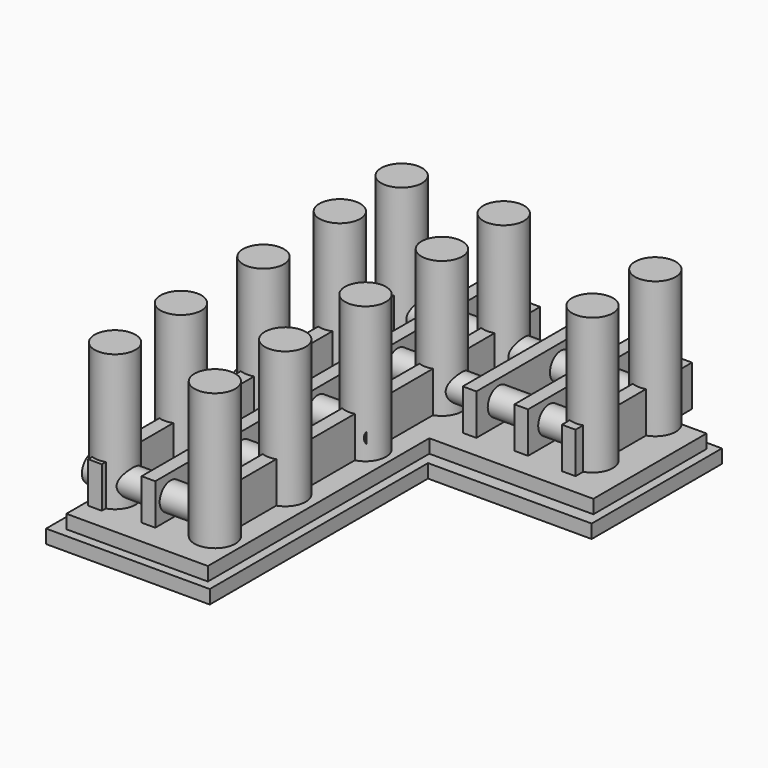
from build123d import *

# Parameters (mm, degrees)
F2_DEPTH      = 12.7
F3_DEPTH      = 25.4
F6_DEPTH      = 38.1
F7_R          = 12.7
F8_DEPTH      = 251.46
F8_DEPTH_BACK = 2.54
F9_DEPTH      = 114.3
F9_DEPTH_BACK = 12.7
F10_R         = 19.05
F11_DEPTH     = 127


with BuildPart() as f2:
    # F0 (on Top) → F2 (new body)
    with BuildSketch(Plane.XY):
        Polygon((152.4, 201.0648879761), (-152.4, 201.0648879761), (-152.4, -204.5382511029), (0, -204.5382511029), (0, 49.4617488971), (152.4, 49.4617488971), align=None)
    extrude(amount=F2_DEPTH)

    # F1 (on Top) → F3 (join)
    with BuildSketch(Plane.XY):
        Polygon((144.2498117685, 193.3349314054), (-140.2351799329, 193.3349314054), (-140.2351799329, -196.1317352613), (-8.4666666667, -196.1317352613), (-8.4666666667, 61.5842622797), (0, 61.5842622797), (144.2498117685, 61.5842622797), align=None)
    extrude(amount=F3_DEPTH)


with BuildPart() as f6:
    # F5 (on offset) → F6 (new body)
    with BuildSketch(Plane.XY.offset(38.1)):
        Polygon((-73.498930751, 197.4967206399), (-73.498930751, 27.8196092695), (-73.498930751, -191.9699460268), (-60.798930751, -191.9699460268), (-60.798930751, 127.6573985815), (-60.798930751, 197.4967206399), align=None)
    extrude(amount=F6_DEPTH)


with BuildPart() as f6b:
    # F5 (on offset) → F6, piece 2 (new body)
    with BuildSketch(Plane.XY.offset(38.1)):
        Polygon((-107.788930751, 194.0739942034), (-120.488930751, 194.0739942034), (-120.488930751, -195.3926724633), (-107.788930751, -195.3926724633), (-107.788930751, 27.8196092695), align=None)
    extrude(amount=F6_DEPTH)

    # F7 (on face) → F8 (join, two sides)
    with BuildSketch(Plane(origin=(-120.488930751, 0, 0), x_dir=(0, -1, 0), z_dir=(-1, 0, 0))) as f8_sk:
        with Locations((-90.2187364873, 57.8096798096)):
            Circle(F7_R)
        with Locations((-162.6416483043, 56.950548049)):
            Circle(F7_R)
    extrude(amount=-F8_DEPTH)
    extrude(f8_sk.sketch, amount=F8_DEPTH_BACK)


with BuildPart() as f6c:
    # F5 (on offset) → F6, piece 3 (new body)
    with BuildSketch(Plane.XY.offset(38.1)):
        Polygon((-26.508930751, 197.2913677375), (-26.508930751, 127.6573985815), (-26.508930751, -192.1752989292), (-13.808930751, -192.1752989292), (-13.808930751, 169.3038642406), (-13.808930751, 197.2913677375), align=None)
    extrude(amount=F6_DEPTH)


with BuildPart() as f6d:
    # F5 (on offset) → F6, piece 4 (new body)
    with BuildSketch(Plane.XY.offset(38.1)):
        Polygon((20.481069249, 199.795165805), (20.481069249, 169.3038642406), (20.481069249, 64.3284991384), (33.181069249, 64.3284991384), (33.181069249, 132.0618324717), (33.181069249, 199.795165805), align=None)
    extrude(amount=F6_DEPTH)


with BuildPart() as f6e:
    # F5 (on offset) → F6, piece 5 (new body)
    with BuildSketch(Plane.XY.offset(38.1)):
        Polygon((67.471069249, 201.1690603177), (67.471069249, 132.0618324717), (67.471069249, 65.702393651), (80.171069249, 65.702393651), (80.171069249, 154.0302634239), (80.171069249, 201.1690603177), align=None)
    extrude(amount=F6_DEPTH)


with BuildPart() as f6f:
    # F5 (on offset) → F6, piece 6 (new body)
    with BuildSketch(Plane.XY.offset(38.1)):
        Polygon((114.461069249, 197.7404037098), (114.461069249, 154.0302634239), (114.461069249, 62.2737370431), (127.161069249, 62.2737370431), (127.161069249, 197.7404037098), align=None)
    extrude(amount=F6_DEPTH)


with BuildPart() as f9:
    # F7 (on face) → F9 (new body, two sides)
    with BuildSketch(Plane(origin=(-120.488930751, 0, 0), x_dir=(0, -1, 0), z_dir=(-1, 0, 0))) as f9_sk:
        with Locations((174.1378468705, 56.9505412799)):
            Circle(F7_R)
    extrude(amount=-F9_DEPTH)
    extrude(f9_sk.sketch, amount=F9_DEPTH_BACK)


with BuildPart() as f9b:
    # F7 (on face) → F9, piece 2 (new body, two sides)
    with BuildSketch(Plane(origin=(-120.488930751, 0, 0), x_dir=(0, -1, 0), z_dir=(-1, 0, 0))) as f9_2_sk:
        with Locations((2.8804370862, 57.2369977062)):
            Circle(F7_R)
    extrude(amount=-F9_DEPTH)
    extrude(f9_2_sk.sketch, amount=F9_DEPTH_BACK)


with BuildPart() as f9c:
    # F7 (on face) → F9, piece 3 (new body, two sides)
    with BuildSketch(Plane(origin=(-120.488930751, 0, 0), x_dir=(0, -1, 0), z_dir=(-1, 0, 0))) as f9_3_sk:
        with Locations((91.5151780908, 56.387302765)):
            Circle(F7_R)
    extrude(amount=-F9_DEPTH)
    extrude(f9_3_sk.sketch, amount=F9_DEPTH_BACK)


with BuildPart() as f11:
    # F10 (on offset) → F11 (new body)
    with BuildSketch(Plane.XY.offset(38.1)):
        with Locations((-113.6402189732, -172.7057695389)):
            Circle(F10_R)
    extrude(amount=F11_DEPTH)


with BuildPart() as f11b:
    # F10 (on offset) → F11, piece 2 (new body)
    with BuildSketch(Plane.XY.offset(38.1)):
        with Locations((-114.9242892861, -94.377502799)):
            Circle(F10_R)
    extrude(amount=F11_DEPTH)


with BuildPart() as f11c:
    # F10 (on offset) → F11, piece 3 (new body)
    with BuildSketch(Plane.XY.offset(38.1)):
        with Locations((-18.6190102249, -175.273925066)):
            Circle(F10_R)
    extrude(amount=F11_DEPTH)


with BuildPart() as f11d:
    # F10 (on offset) → F11, piece 4 (new body)
    with BuildSketch(Plane.XY.offset(38.1)):
        with Locations((-19.9030805379, -91.8093547225)):
            Circle(F10_R)
    extrude(amount=F11_DEPTH)


with BuildPart() as f11e:
    # F10 (on offset) → F11, piece 5 (new body)
    with BuildSketch(Plane.XY.offset(38.1)):
        with Locations((-18.6190102249, 0)):
            Circle(F10_R)
    extrude(amount=F11_DEPTH)


with BuildPart() as f11f:
    # F10 (on offset) → F11, piece 6 (new body)
    with BuildSketch(Plane.XY.offset(38.1)):
        with Locations((-113.6402189732, 0)):
            Circle(F10_R)
    extrude(amount=F11_DEPTH)


with BuildPart() as f11g:
    # F10 (on offset) → F11, piece 7 (new body)
    with BuildSketch(Plane.XY.offset(38.1)):
        with Locations((-114.9242892861, 90.5286222696)):
            Circle(F10_R)
    extrude(amount=F11_DEPTH)


with BuildPart() as f11h:
    # F10 (on offset) → F11, piece 8 (new body)
    with BuildSketch(Plane.XY.offset(38.1)):
        with Locations((-114.9242892861, 162.4365597963)):
            Circle(F10_R)
    extrude(amount=F11_DEPTH)


with BuildPart() as f11i:
    # F10 (on offset) → F11, piece 9 (new body)
    with BuildSketch(Plane.XY.offset(38.1)):
        with Locations((-19.9030805379, 162.4365597963)):
            Circle(F10_R)
    extrude(amount=F11_DEPTH)


with BuildPart() as f11j:
    # F10 (on offset) → F11, piece 10 (new body)
    with BuildSketch(Plane.XY.offset(38.1)):
        with Locations((-19.9030805379, 90.5286222696)):
            Circle(F10_R)
    extrude(amount=F11_DEPTH)


with BuildPart() as f11k:
    # F10 (on offset) → F11, piece 11 (new body)
    with BuildSketch(Plane.XY.offset(38.1)):
        with Locations((121.3446557522, 89.2445519567)):
            Circle(F10_R)
    extrude(amount=F11_DEPTH)


with BuildPart() as f11l:
    # F10 (on offset) → F11, piece 12 (new body)
    with BuildSketch(Plane.XY.offset(38.1)):
        with Locations((121.3446557522, 162.4365597963)):
            Circle(F10_R)
    extrude(amount=F11_DEPTH)


solid = Compound([f2.part, f6.part, f6b.part, f6c.part, f6d.part, f6e.part, f6f.part, f9.part, f9b.part, f9c.part, f11.part, f11b.part, f11c.part, f11d.part, f11e.part, f11f.part, f11g.part, f11h.part, f11i.part, f11j.part, f11k.part, f11l.part])
